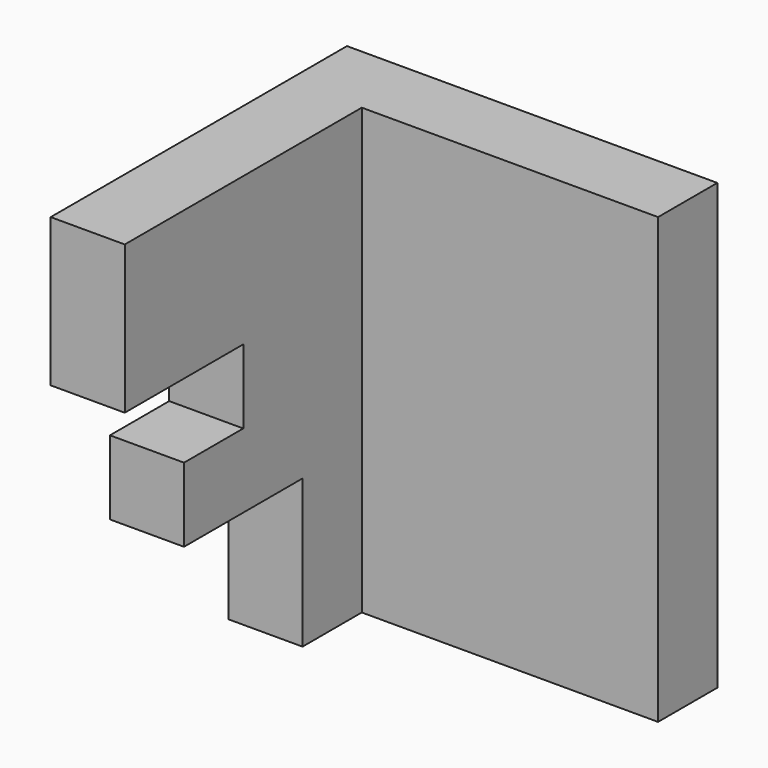
from build123d import *

# Parameters (mm, degrees)
F1_DEPTH = 12.7
F2_W     = 12.7
F2_H     = 76.2
F3_DEPTH = 50.8


with BuildPart() as f1:
    # F0 (on Right) → F1 (new body)
    with BuildSketch(Plane.YZ):
        Polygon((10.724573, -44.116616), (36.124573, -44.116616), (36.124573, 32.083384), (-27.375427, 32.083384), (-27.375427, 6.683384), (-1.975427, 6.683384), (-1.975427, -6.016616), (-14.675427, -6.016616), (-14.675427, -18.716616), (10.724573, -18.716616), align=None)
    extrude(amount=F1_DEPTH)

    # F2 (on face) → F3 (join)
    with BuildSketch(Plane.YZ.offset(12.7)):
        with Locations((29.774573, -6.016616)):
            Rectangle(F2_W, F2_H)
    extrude(amount=F3_DEPTH)


solid = f1.part
